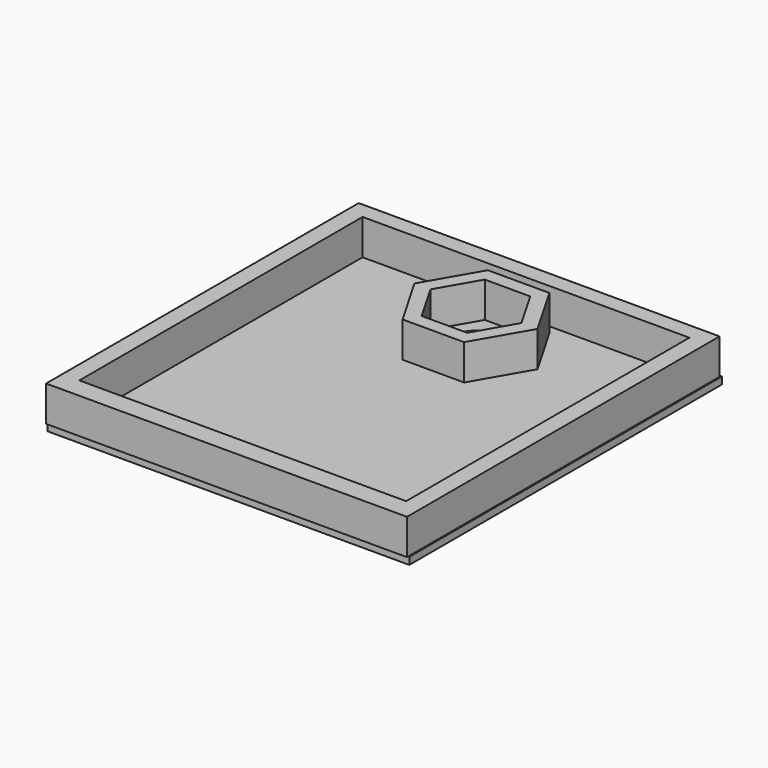
from build123d import *

# Parameters (mm, degrees)
PAD005_DEPTH  = 5
SKETCH007_W   = 50.955005
SKETCH007_H   = 55
SKETCH007_R   = 3.75
PAD006_DEPTH  = 1
SKETCH008_W   = 50.8
SKETCH008_H   = 55
SKETCH008_W_2 = 46
SKETCH008_H_2 = 49.832681
PAD007_DEPTH  = 5


with BuildPart() as part:
    # Sketch006 → Pad005 (new body)
    with BuildSketch(Plane.XY):
        Polygon((4.330127, 47.5), (8.660254, 55), (4.330127, 62.5), (-4.330127, 62.5), (-8.660254, 55), (-4.330127, 47.5), align=None)
        Polygon((3.204294, 49.45), (6.408588, 55), (3.204294, 60.55), (-3.204294, 60.55), (-6.408588, 55), (-3.204294, 49.45), align=None, mode=Mode.SUBTRACT)
    extrude(amount=PAD005_DEPTH)

    # Sketch007 → Pad006 (join)
    with BuildSketch(Plane.XY):
        with Locations((0.077502, 38.828427)):
            Rectangle(SKETCH007_W, SKETCH007_H)
        with Locations((0, 55.078962)):
            Circle(SKETCH007_R, mode=Mode.SUBTRACT)
    extrude(amount=-PAD006_DEPTH)

    # Sketch008 → Pad007 (join)
    with BuildSketch(Plane.XY):
        with Locations((0, 38.613518)):
            Rectangle(SKETCH008_W, SKETCH008_H)
        with Locations((0, 38.883774)):
            Rectangle(SKETCH008_W_2, SKETCH008_H_2, mode=Mode.SUBTRACT)
    extrude(amount=PAD007_DEPTH)


solid = part.part
